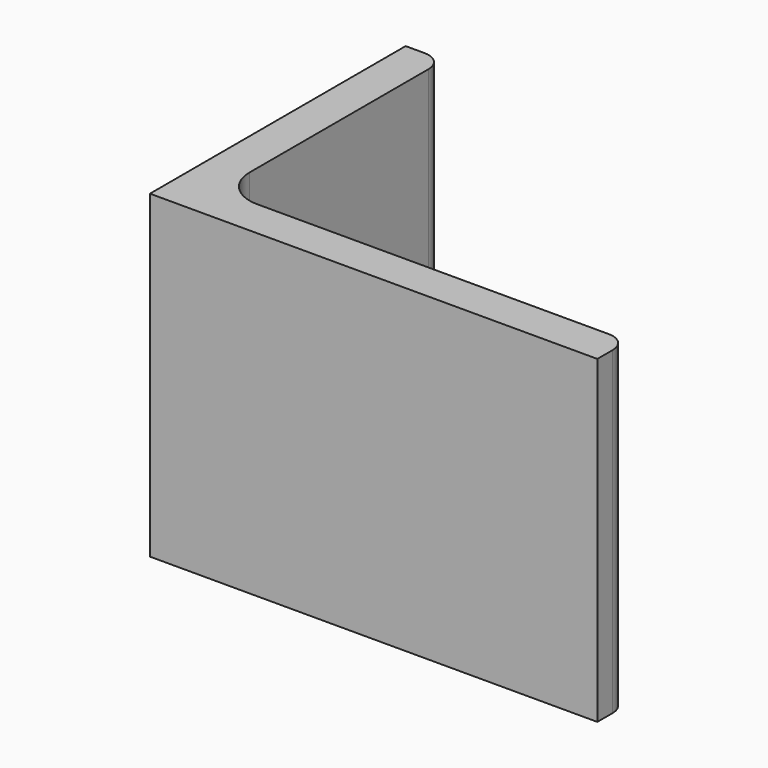
from build123d import *

# Parameters (mm, degrees)
EXTRUDE_DEPTH = 50


with BuildPart() as part:
    # Sketch → Extrude (new body)
    with BuildSketch(Plane.XY):
        with BuildLine():
            Line((0, 0), (70, 0))
            Line((70, 0), (70, 3))
            ThreePointArc((70, 3), (69.12132, 5.12132), (67, 6))
            Line((67, 6), (12, 6))
            ThreePointArc((6, 12), (7.757359, 7.757359), (12, 6))
            Line((6, 47), (6, 12))
            ThreePointArc((6, 47), (5.12132, 49.12132), (3, 50))
            Line((0, 50), (3, 50))
            Line((0, 0), (0, 50))
        make_face()
    extrude(amount=EXTRUDE_DEPTH)


solid = part.part
